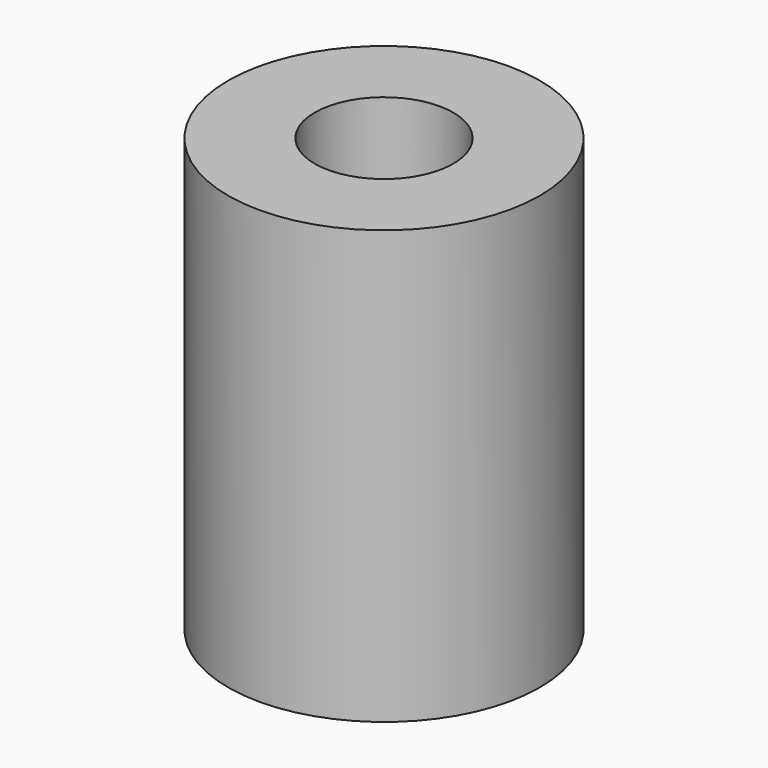
from build123d import *

# Parameters (mm, degrees)
SKETCH045_R              = 9
PAD027_DEPTH             = 25
SKETCH046_R              = 2.5
POCKET021_DEPTH          = 6
SKETCH047_R              = 4
POCKET022_DEPTH          = 6
CLONE040_PLACEMENT_ANGLE = 180


with BuildPart() as part:
    # Sketch045 → Pad027 (new body)
    with BuildSketch(Plane.XY):
        Circle(SKETCH045_R)
    extrude(amount=PAD027_DEPTH)

    # Sketch046 (on Face3 of Pad027) → Pocket021 (cut)
    with BuildSketch(Plane.XY.offset(25)):
        Circle(SKETCH046_R)
    extrude(amount=-POCKET021_DEPTH, mode=Mode.SUBTRACT)

    # Sketch047 (on Face2 of Pocket021) → Pocket022 (cut)
    with BuildSketch(Plane(origin=(0, 0, 0), x_dir=(1, 0, 0), z_dir=(0, 0, -1))):
        Circle(SKETCH047_R)
    extrude(amount=-POCKET022_DEPTH, mode=Mode.SUBTRACT)


with BuildPart() as part_1:
    # Clone040 placement: moved
    add(part.part.moved(Location((-310, -25, 82))).rotate(Axis((-310, -25, 82), (0, 1, 0)), CLONE040_PLACEMENT_ANGLE))


solid = part_1.part
